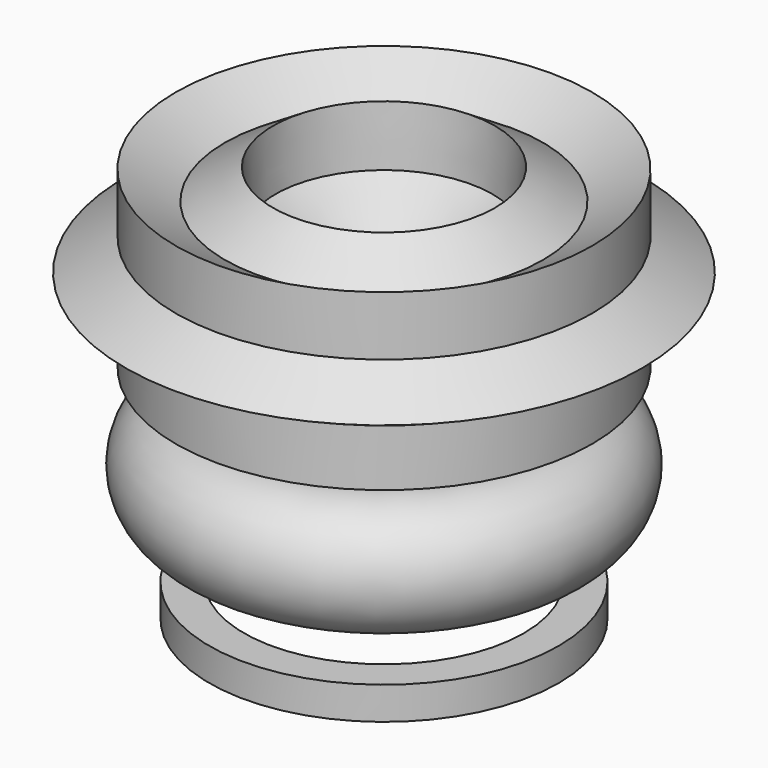
from build123d import *

# Parameters (mm, degrees)
F0_R     = 96.1929231716
F2_R     = 37.5334289589
F2_R_2   = 37.4396908016
F3_DEPTH = 215.9
F5_R     = 20.3338743876
F5_W     = 11.7133818567
F5_H     = 11.0542839393


with BuildPart() as f1:
    # F0 (on Front) → F1 (revolve)
    with BuildSketch(Plane.XZ):
        with Locations((113.3733838797, 138.1946206093)):
            Circle(F0_R)
    revolve(axis=Axis((0, 0, 82.1639001369), (0, 0, 1)))

    # F2 (on Front) → F3 (join)
    with BuildSketch(Plane.XZ):
        with Locations((165.6776368618, 54.8734031618)):
            Circle(F2_R)
        with Locations((-158.4630459547, 50.2354614437)):
            Circle(F2_R_2)
    extrude(amount=F3_DEPTH)


with BuildPart() as f6:
    # F5 (on Front) → F6 (revolve)
    with BuildSketch(Plane.XZ):
        with Locations((52.956495434, 35.0435636938)):
            Circle(F5_R)
    revolve(axis=Axis((0, 0, 35.6124825776), (0, 0, 1)))


with BuildPart() as f6b:
    # F5 (on Front) → F6, piece 2 (revolve)
    with BuildSketch(Plane.XZ):
        with Locations((53.1454179436, -5.5271419697)):
            Rectangle(F5_W, F5_H)
    revolve(axis=Axis((0, 0, 35.6124825776), (0, 0, 1)))


with BuildPart() as f6c:
    # F5 (on Front) → F6, piece 3 (revolve)
    with BuildSketch(Plane.XZ):
        Polygon((70.3376494348, 102.6043378538), (70.3376494348, 122.6832490881), (53.7288233056, 113.0941388515), align=None)
        Polygon((87.3141386506, 91.8823282351), (70.3376494348, 102.6043378538), (70.3376494348, 82.9602794553), align=None)
        Polygon((70.3376494348, 82.9602794553), (70.3376494348, 102.6043378538), (53.7288233056, 113.0941388515), (36.7165696991, 103.2721096523), (35.9365486191, 83.6435437985), (52.9488022255, 73.8215145992), align=None)
        Polygon((36.7165696991, 103.2721096523), (53.7288233056, 113.0941388515), (37.5138578006, 123.3351853895), align=None)
        Polygon((70.3376494348, 63.7820589821), (70.3376494348, 82.9602794553), (52.9488022255, 73.8215145992), align=None)
        Polygon((35.9365486191, 83.6435437985), (36.7165696991, 103.2721096523), (19.3277224898, 93.2326540351), align=None)
        Polygon((35.1750249082, 64.4804484807), (52.9488022255, 73.8215145992), (35.9365486191, 83.6435437985), align=None)
    revolve(axis=Axis((0, 0, 35.6124825776), (0, 0, 1)))


solid = Compound([f6.part, f6b.part, f6c.part])
